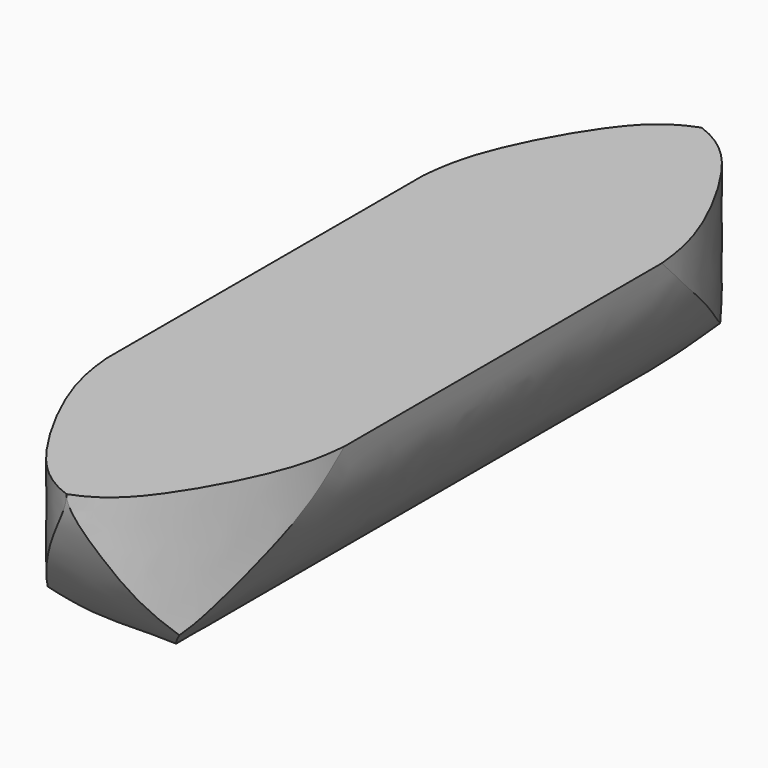
from build123d import *

# Parameters (mm, degrees)
F1_DEPTH = 700
F4_DEPTH = 3000
F5_DEPTH = 700
F6_DEPTH = 900


with BuildPart() as f1:
    # F0 (on Top) → F1 (new body)
    with BuildSketch(Plane.XY):
        with BuildLine():
            Line((450, 749.7524023056), (450, 1500))
            Line((450, 1500), (0, 1500))
            add(Edge.make_bspline(
                [(0, 1500), (100.8642613888, 1463.8308286667), (234.6756063139, 1325.7616934628), (407.5243329429, 997.5734102278), (441.0024285316, 845.91537714), (450, 749.7524023056)],
                knots=[0, 0, 0, 0, 0.3294965593, 0.691826949, 1, 1, 1, 1], degree=3))
        make_face()
        with BuildLine():
            add(Edge.make_bspline(
                [(0, 1500), (-100.8642613888, 1463.8308286667), (-234.6756063139, 1325.7616934628), (-407.5243329429, 997.5734102278), (-441.0024285316, 845.91537714), (-450, 749.7524023056)],
                knots=[0, 0, 0, 0, 0.3294965593, 0.691826949, 1, 1, 1, 1], degree=3))
            Line((0, 1500), (-450, 1500))
            Line((-450, 1500), (-450, 749.7524023056))
        make_face()
        with BuildLine():
            add(Edge.make_bspline(
                [(0, 1500), (100.8642613888, 1463.8308286667), (234.6756063139, 1325.7616934628), (407.5243329429, 997.5734102278), (441.0024285316, 845.91537714), (450, 749.7524023056)],
                knots=[0, 0, 0, 0, 0.3294965593, 0.691826949, 1, 1, 1, 1], degree=3))
            add(Edge.make_bspline(
                [(0, 1500), (-100.8642613888, 1463.8308286667), (-234.6756063139, 1325.7616934628), (-407.5243329429, 997.5734102278), (-441.0024285316, 845.91537714), (-450, 749.7524023056)],
                knots=[0, 0, 0, 0, 0.3294965593, 0.691826949, 1, 1, 1, 1], degree=3))
            Line((-450, 749.7524023056), (-450, -749.7524023056))
            add(Edge.make_bspline(
                [(0, -1500), (-100.8642613888, -1463.8308286667), (-234.6756063139, -1325.7616934628), (-407.5243329429, -997.5734102278), (-441.0024285316, -845.91537714), (-450, -749.7524023056)],
                knots=[0, 0, 0, 0, 0.3294965593, 0.691826949, 1, 1, 1, 1], degree=3))
            add(Edge.make_bspline(
                [(0, -1500), (100.8642613888, -1463.8308286667), (234.6756063139, -1325.7616934628), (407.5243329429, -997.5734102278), (441.0024285316, -845.91537714), (450, -749.7524023056)],
                knots=[0, 0, 0, 0, 0.3294965593, 0.691826949, 1, 1, 1, 1], degree=3))
            Line((450, -749.7524023056), (450, 749.7524023056))
        make_face()
        with BuildLine():
            Line((450, -1500), (450, -749.7524023056))
            add(Edge.make_bspline(
                [(0, -1500), (100.8642613888, -1463.8308286667), (234.6756063139, -1325.7616934628), (407.5243329429, -997.5734102278), (441.0024285316, -845.91537714), (450, -749.7524023056)],
                knots=[0, 0, 0, 0, 0.3294965593, 0.691826949, 1, 1, 1, 1], degree=3))
            Line((0, -1500), (450, -1500))
        make_face()
        with BuildLine():
            add(Edge.make_bspline(
                [(0, -1500), (-100.8642613888, -1463.8308286667), (-234.6756063139, -1325.7616934628), (-407.5243329429, -997.5734102278), (-441.0024285316, -845.91537714), (-450, -749.7524023056)],
                knots=[0, 0, 0, 0, 0.3294965593, 0.691826949, 1, 1, 1, 1], degree=3))
            Line((-450, -749.7524023056), (-450, -1500))
            Line((-450, -1500), (0, -1500))
        make_face()
    extrude(amount=F1_DEPTH)

    # F3 (on face) → F4 (cut)
    with BuildSketch(Plane.XZ.offset(1500)):
        with BuildLine():
            add(Edge.make_bspline(
                [(-450, 700), (-439.5289719105, 593.1040048599), (-411.9189943477, 483.1889821652), (-284.0950190244, 254.9120667283), (-222.2442496599, 195.244360504), (-108.8690236211, 70.4775676131), (0, 0)],
                knots=[0, 0, 0, 0, 0.2706708623, 0.5369264159, 0.698816658, 1, 1, 1, 1], degree=3))
            Line((-450, 700), (-450, 0))
            Line((-450, 0), (0, 0))
        make_face()
        with BuildLine():
            add(Edge.make_bspline(
                [(450, 700), (439.5289719105, 593.1040048599), (411.9189943477, 483.1889821652), (284.0950190244, 254.9120667283), (222.2442496599, 195.244360504), (108.8690236211, 70.4775676131), (0, 0)],
                knots=[0, 0, 0, 0, 0.2706708623, 0.5369264159, 0.698816658, 1, 1, 1, 1], degree=3))
            Line((0, 0), (450, 0))
            Line((450, 0), (450, 700))
        make_face()
    extrude(amount=-F4_DEPTH, mode=Mode.SUBTRACT)

    # F0 (on Top) → F5 (cut)
    with BuildSketch(Plane.XY):
        with BuildLine():
            add(Edge.make_bspline(
                [(0, -1500), (-100.8642613888, -1463.8308286667), (-234.6756063139, -1325.7616934628), (-407.5243329429, -997.5734102278), (-441.0024285316, -845.91537714), (-450, -749.7524023056)],
                knots=[0, 0, 0, 0, 0.3294965593, 0.691826949, 1, 1, 1, 1], degree=3))
            Line((-450, -749.7524023056), (-450, -1500))
            Line((-450, -1500), (0, -1500))
        make_face()
        with BuildLine():
            Line((450, -1500), (450, -749.7524023056))
            add(Edge.make_bspline(
                [(0, -1500), (100.8642613888, -1463.8308286667), (234.6756063139, -1325.7616934628), (407.5243329429, -997.5734102278), (441.0024285316, -845.91537714), (450, -749.7524023056)],
                knots=[0, 0, 0, 0, 0.3294965593, 0.691826949, 1, 1, 1, 1], degree=3))
            Line((0, -1500), (450, -1500))
        make_face()
        with BuildLine():
            Line((450, 749.7524023056), (450, 1500))
            Line((450, 1500), (0, 1500))
            add(Edge.make_bspline(
                [(0, 1500), (100.8642613888, 1463.8308286667), (234.6756063139, 1325.7616934628), (407.5243329429, 997.5734102278), (441.0024285316, 845.91537714), (450, 749.7524023056)],
                knots=[0, 0, 0, 0, 0.3294965593, 0.691826949, 1, 1, 1, 1], degree=3))
        make_face()
        with BuildLine():
            add(Edge.make_bspline(
                [(0, 1500), (-100.8642613888, 1463.8308286667), (-234.6756063139, 1325.7616934628), (-407.5243329429, 997.5734102278), (-441.0024285316, 845.91537714), (-450, 749.7524023056)],
                knots=[0, 0, 0, 0, 0.3294965593, 0.691826949, 1, 1, 1, 1], degree=3))
            Line((0, 1500), (-450, 1500))
            Line((-450, 1500), (-450, 749.7524023056))
        make_face()
    extrude(amount=F5_DEPTH, mode=Mode.SUBTRACT)

    # F2 (on face) → F6 (cut)
    with BuildSketch(Plane(origin=(-450, 0, 0), x_dir=(0, -1, 0), z_dir=(-1, 0, 0))):
        with BuildLine():
            Line((-1500, 0), (-828.8406559719, 0))
            add(Edge.make_bspline(
                [(-828.8406559719, 0), (-877.614589413, 1.7615174136), (-1084.9447610631, 21.6260001585), (-1323.5223181249, 254.2452147857), (-1440.1733255379, 451.4885920654), (-1500, 630.596174553), (-1500, 700)],
                knots=[0.1067062912, 0.1067062912, 0.1067062912, 0.1067062912, 0.2377819088, 0.5343121123, 0.7663892874, 1, 1, 1, 1], degree=3))
            Line((-1500, 700), (-1500, 0))
        make_face()
        with BuildLine():
            Line((1500, 0), (1500, 700))
            add(Edge.make_bspline(
                [(828.8406559719, 0), (877.614589413, 1.7615174136), (1084.9447610631, 21.6260001585), (1323.5223181249, 254.2452147857), (1440.1733255379, 451.4885920654), (1500, 630.596174553), (1500, 700)],
                knots=[0.1067062912, 0.1067062912, 0.1067062912, 0.1067062912, 0.2377819088, 0.5343121123, 0.7663892874, 1, 1, 1, 1], degree=3))
            Line((828.8406559719, 0), (1500, 0))
        make_face()
    extrude(amount=-F6_DEPTH, mode=Mode.SUBTRACT)


solid = f1.part
